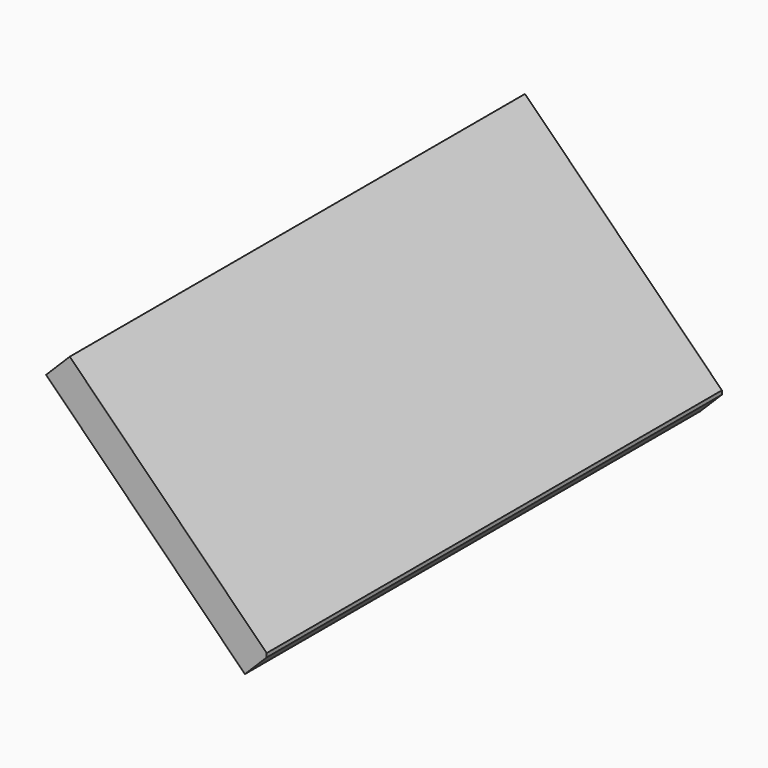
from build123d import *

# Parameters (mm, degrees)
BOX011_W               = 10
BOX011_H               = 86
BOX011_DEPTH           = 10
BOX006_W               = 5
BOX006_H               = 85
BOX006_DEPTH           = 42
BOX006_PLACEMENT_ANGLE = 315


with BuildPart() as cube011:
    # Box011 → Box011 (new body)
    with BuildSketch(Plane(origin=(55.25, 5, -33), x_dir=(1, 0, 0), z_dir=(0, 0, 1))):
        with Locations((5, 43)):
            Rectangle(BOX011_W, BOX011_H)
    extrude(amount=BOX011_DEPTH)


with BuildPart() as cut006:
    # Box006 → Box006 (new body)
    with BuildSketch(Plane.XY):
        with Locations((2.5, 42.5)):
            Rectangle(BOX006_W, BOX006_H)
    extrude(amount=BOX006_DEPTH)


with BuildPart() as cut006_1:
    # Box006 placement: moved
    add(cut006.part.moved(Location((52, 5, -33))).rotate(Axis((52, 5, -33), (0, 1, 0)), BOX006_PLACEMENT_ANGLE))

    # Cut006: cut Cube011
    add(cube011.part, mode=Mode.SUBTRACT)


solid = cut006_1.part
